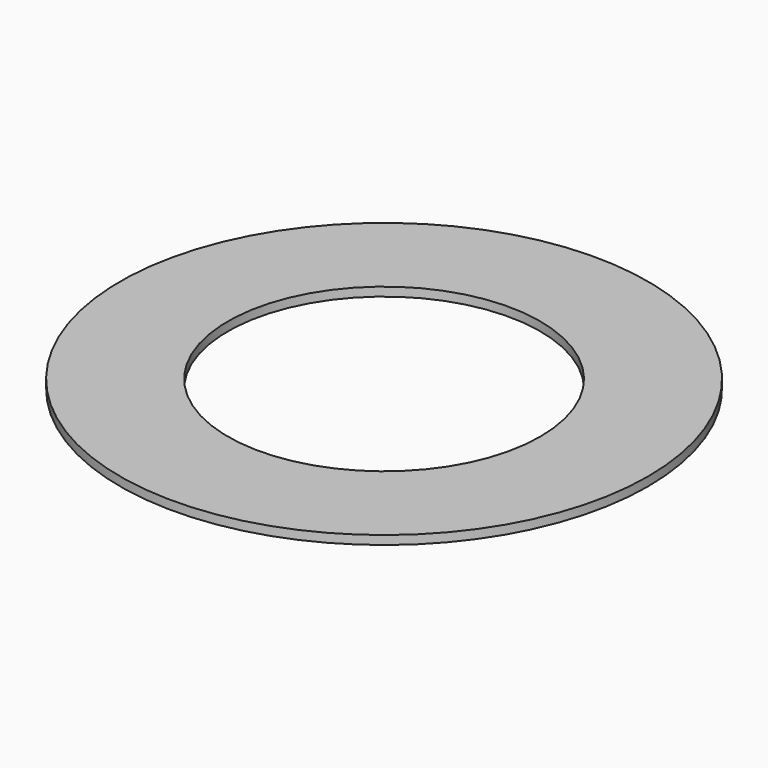
from build123d import *

# Parameters (mm, degrees)
SKETCH_R   = 6
SKETCH_R_2 = 3.55
PAD_DEPTH  = 0.2


with BuildPart() as part:
    # Sketch → Pad (new body)
    with BuildSketch(Plane.XY):
        Circle(SKETCH_R)
        Circle(SKETCH_R_2, mode=Mode.SUBTRACT)
    extrude(amount=PAD_DEPTH)


solid = part.part
